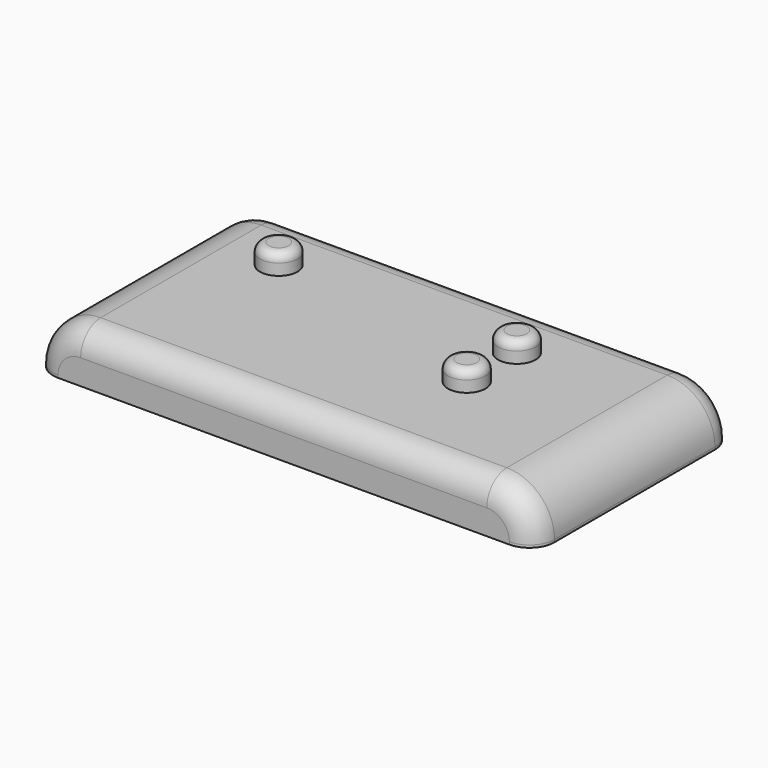
from build123d import *

# Parameters (mm, degrees)
SKETCH001_W  = 5
SKETCH001_H  = 5
PAD_DEPTH    = 1.7
SKETCH_W     = 20
SKETCH_H     = 10
PAD001_DEPTH = 2
FILLET_R     = 1.9
FILLET001_R  = 1
SKETCH002_R  = 0.75
PAD002_DEPTH = 0.8
FILLET002_R  = 0.35


with BuildPart() as pad:
    # Sketch001 → Pad (new body)
    with BuildSketch(Plane.XY):
        with Locations((10, 5)):
            Rectangle(SKETCH001_W, SKETCH001_H)
    extrude(amount=PAD_DEPTH)


with BuildPart() as cut:
    # Sketch → Pad001 (new body)
    with BuildSketch(Plane.XY):
        with Locations((10, 5)):
            Rectangle(SKETCH_W, SKETCH_H)
    extrude(amount=PAD001_DEPTH)

    # Fillet
    fillet_edges = [cut.edges().sort_by_distance(p)[0] for p in [
        (20, 5, 2),
        (0, 5, 2),
    ]]
    fillet(fillet_edges, radius=FILLET_R)

    # Fillet001
    fillet001_edges = [cut.edges().sort_by_distance(p)[0] for p in [
        (10, 0, 2),
        (10, 10, 2),
    ]]
    fillet(fillet001_edges, radius=FILLET001_R)

    # Cut: cut Pad
    add(pad.part, mode=Mode.SUBTRACT)


with BuildPart() as fillet002:
    # Sketch002 → Pad002 (new body)
    with BuildSketch(Plane.XY.offset(2)):
        with Locations((4, 7.25)):
            Circle(SKETCH002_R)
        with Locations((13.5, 7.25)):
            Circle(SKETCH002_R)
        with Locations((13.5, 4.75)):
            Circle(SKETCH002_R)
    extrude(amount=PAD002_DEPTH)

    # Fillet002
    fillet002_edges = [fillet002.edges().sort_by_distance(p)[0] for p in [
        (3.25, 7.25, 2.8),
        (12.75, 7.25, 2.8),
        (12.75, 4.75, 2.8),
    ]]
    fillet(fillet002_edges, radius=FILLET002_R)


solid = Compound([cut.part, fillet002.part])
